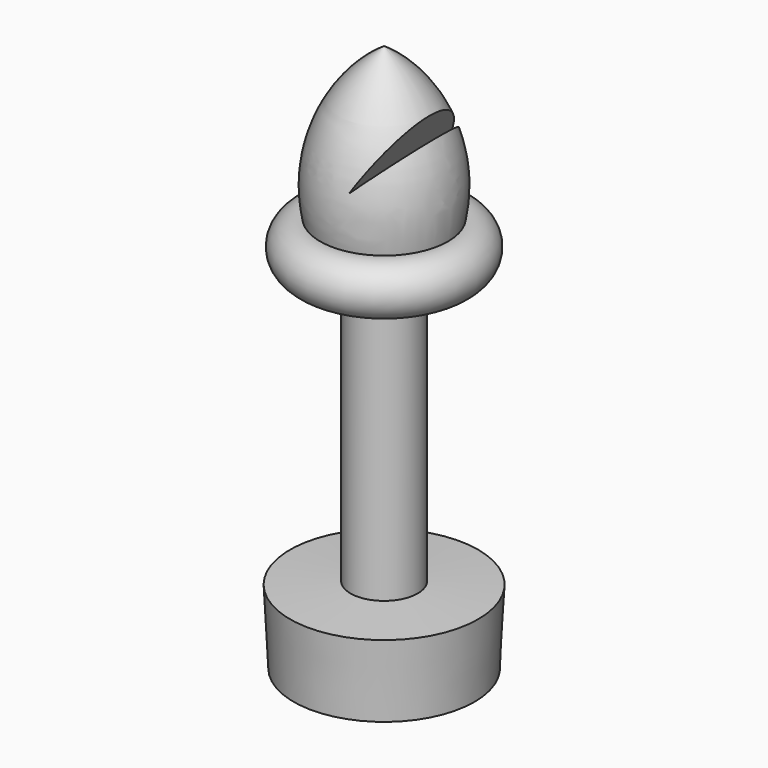
from build123d import *

# Parameters (mm, degrees)
F3_DEPTH = 25.4
F4_DEPTH = 77.724


with BuildPart() as f1:
    # F0 (on Front) → F1 (revolve)
    with BuildSketch(Plane.XZ):
        with BuildLine():
            Line((2.360177, 24.309821), (4.484335, 24.309821))
            ThreePointArc((4.484335, 24.309821), (6.487143, 26.079956), (4.484335, 27.85009))
            ThreePointArc((4.484335, 27.85009), (3.877248, 33.850855), (0, 38.470887))
            Line((0, 38.470887), (0, 0))
            Line((0, 0), (6.35, 0))
            Line((6.35, 0), (6.608495, 5.192389))
            Line((6.608495, 5.192389), (2.360177, 5.403885))
            Line((2.360177, 5.403885), (2.360177, 24.309821))
        make_face()
    revolve(axis=Axis((0, 0, 19.235443), (0, 0, 1)))

    # F2 (on Front) → F3 (cut)
    with BuildSketch(Plane.XZ):
        Polygon((1.067538, 31.488389), (5.900443, 36.11071), (4.24832, 37.054777), align=None)
    extrude(amount=-F3_DEPTH, mode=Mode.SUBTRACT)

    # F2 (on Front) → F4 (cut)
    with BuildSketch(Plane.XZ):
        Polygon((1.067538, 31.488389), (5.900443, 36.11071), (4.24832, 37.054777), align=None)
    extrude(amount=F4_DEPTH, mode=Mode.SUBTRACT)


solid = f1.part
